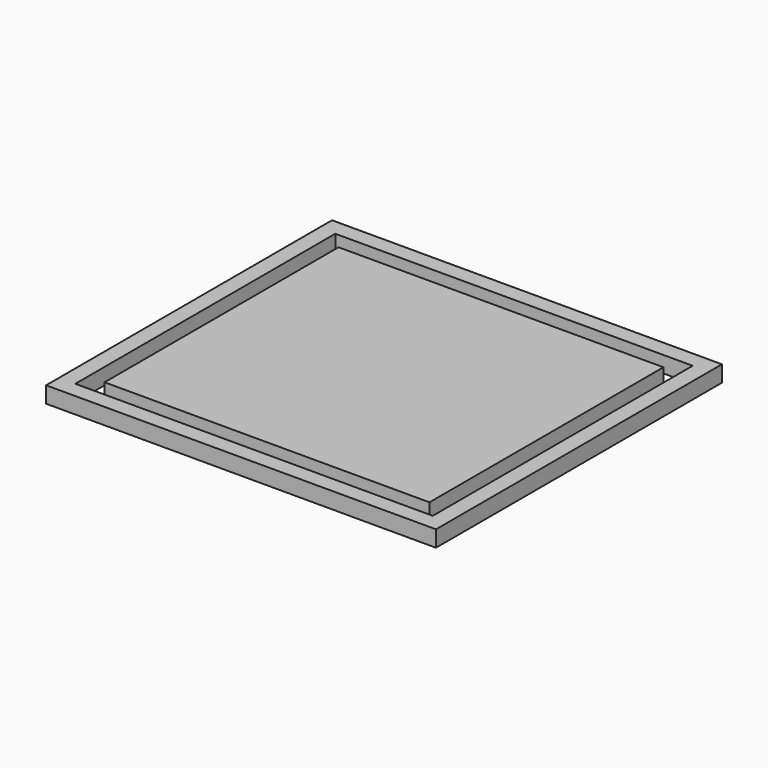
from build123d import *

# Parameters (mm, degrees)
F0_W     = 2400
F0_H     = 2200
F1_DEPTH = 100
F2_W     = 2200
F2_H     = 2000
F2_W_2   = 2000
F2_H_2   = 1800
F3_DEPTH = 100.001


with BuildPart() as f1:
    # F0 (on Top) → F1 (new body)
    with BuildSketch(Plane.XY):
        Rectangle(F0_W, F0_H)
    extrude(amount=F1_DEPTH)

    # F2 (on face) → F3 (cut, through all)
    with BuildSketch(Plane.XY.offset(100)):
        Rectangle(F2_W, F2_H)
        Rectangle(F2_W_2, F2_H_2, mode=Mode.SUBTRACT)
    extrude(amount=-F3_DEPTH, mode=Mode.SUBTRACT)


solid = f1.part
